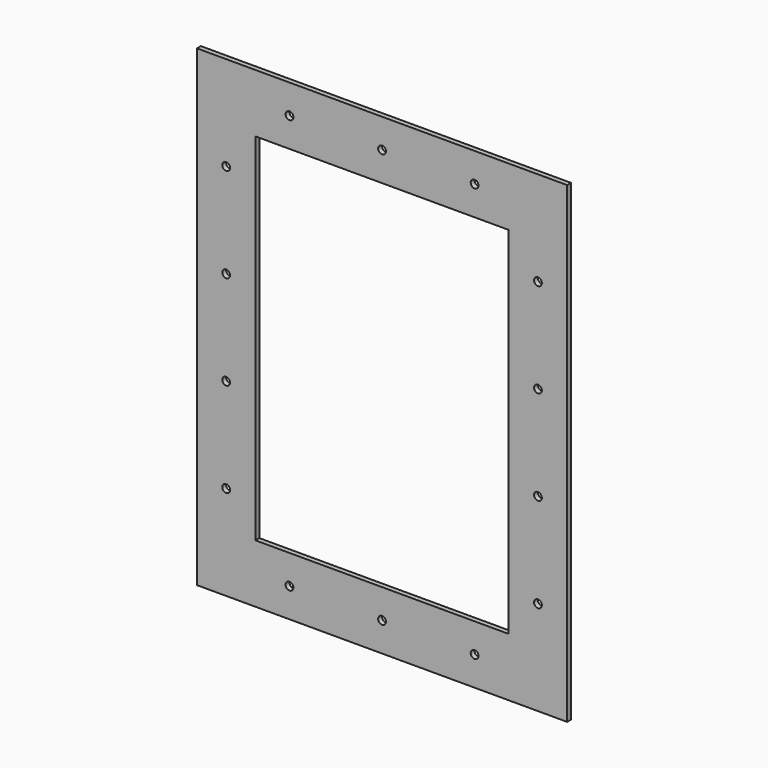
from build123d import *

# Parameters (mm, degrees)
F0_R     = 4
F1_DEPTH = 2.5


with BuildPart() as f1:
    # F0 (on Front) → F1 (new body, symmetric)
    with BuildSketch(Plane.XZ):
        Polygon((130, 60), (-130, 60), (-190, 0), (190, 0), align=None)
        with Locations((-95, 30)):
            Circle(F0_R, mode=Mode.SUBTRACT)
        with Locations((0, 30)):
            Circle(F0_R, mode=Mode.SUBTRACT)
        with Locations((95, 30)):
            Circle(F0_R, mode=Mode.SUBTRACT)
        Polygon((130, 425), (130, 60), (190, 0), (190, 485), align=None)
        with Locations((160, 97)):
            Circle(F0_R, mode=Mode.SUBTRACT)
        with Locations((160, 194)):
            Circle(F0_R, mode=Mode.SUBTRACT)
        with Locations((160, 291)):
            Circle(F0_R, mode=Mode.SUBTRACT)
        with Locations((160, 388)):
            Circle(F0_R, mode=Mode.SUBTRACT)
        Polygon((-190, 0), (-130, 60), (-130, 425), (-190, 485), align=None)
        with Locations((-160, 97)):
            Circle(F0_R, mode=Mode.SUBTRACT)
        with Locations((-160, 194)):
            Circle(F0_R, mode=Mode.SUBTRACT)
        with Locations((-160, 291)):
            Circle(F0_R, mode=Mode.SUBTRACT)
        with Locations((-160, 388)):
            Circle(F0_R, mode=Mode.SUBTRACT)
        Polygon((-190, 485), (-130, 425), (130, 425), (190, 485), align=None)
        with Locations((-95, 455)):
            Circle(F0_R, mode=Mode.SUBTRACT)
        with Locations((0, 455)):
            Circle(F0_R, mode=Mode.SUBTRACT)
        with Locations((95, 455)):
            Circle(F0_R, mode=Mode.SUBTRACT)
    extrude(amount=F1_DEPTH, both=True)


solid = f1.part
